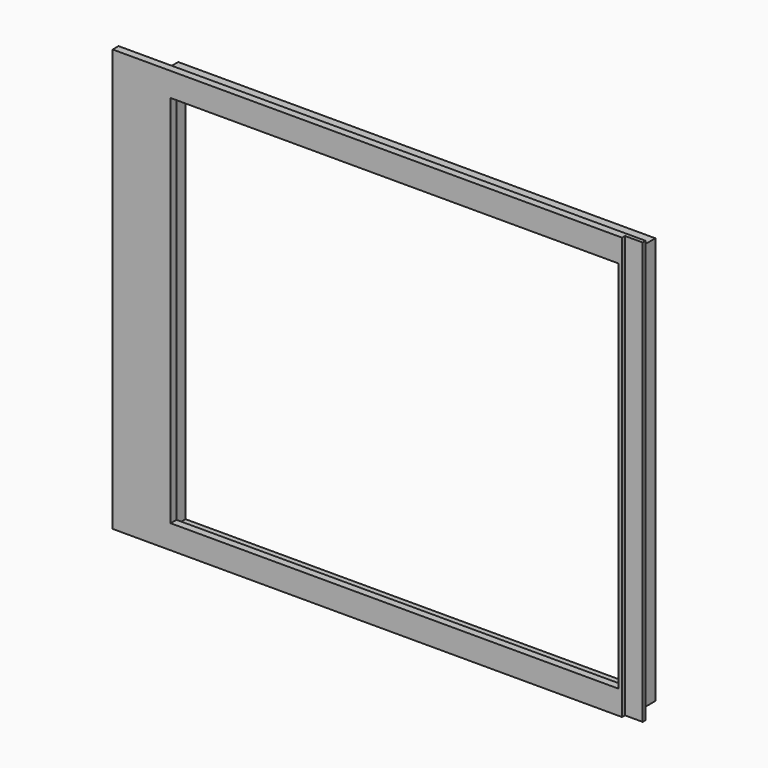
from build123d import *

# Parameters (mm, degrees)
F0_W          = 124.7
F0_H          = 107
F0_W_2        = 122
F0_H_2        = 102
F0_W_3        = 1.3
F1_DEPTH      = 2
F2_DEPTH      = 7.2
F3_DEPTH      = 1
F3_DEPTH_BACK = 2


with BuildPart() as f1:
    # F0 (on Front) → F1 (new body)
    with BuildSketch(Plane.XZ):
        Polygon((-77.1, -57.5), (61.7, -57.5), (61.7, -55.5), (-65, -55.5), (-65, 55.5), (61.7, 55.5), (61.7, 57.5), (-77.1, 57.5), align=None)
        Polygon((61.7, -53.5), (61.7, -55.5), (65, -55.5), (65, 55.5), (61.7, 55.5), (61.7, 53.5), (63, 53.5), (63, -53.5), align=None)
        Polygon((-65, -55.5), (61.7, -55.5), (61.7, -53.5), (-63, -53.5), (-63, 53.5), (61.7, 53.5), (61.7, 55.5), (-65, 55.5), align=None)
        with Locations((-0.65, 0)):
            Rectangle(F0_W, F0_H)
        with Locations((-0.3, 0)):
            Rectangle(F0_W_2, F0_H_2, mode=Mode.SUBTRACT)
        Polygon((61.7, -57.5), (66.5, -57.5), (66.5, 57.5), (61.7, 57.5), (61.7, 55.5), (65, 55.5), (65, -55.5), (61.7, -55.5), align=None)
        with Locations((62.35, 0)):
            Rectangle(F0_W_3, F0_H)
    extrude(amount=-F1_DEPTH)

    # F0 (on Front) → F2 (join)
    with BuildSketch(Plane.XZ):
        Polygon((61.7, -53.5), (61.7, -55.5), (65, -55.5), (65, 55.5), (61.7, 55.5), (61.7, 53.5), (63, 53.5), (63, -53.5), align=None)
        Polygon((-65, -55.5), (61.7, -55.5), (61.7, -53.5), (-63, -53.5), (-63, 53.5), (61.7, 53.5), (61.7, 55.5), (-65, 55.5), align=None)
    extrude(amount=-F2_DEPTH)

    # F0 (on Front) → F3 (cut, two sides)
    with BuildSketch(Plane.XZ) as f3_sk:
        Polygon((61.7, -57.5), (66.5, -57.5), (66.5, 57.5), (61.7, 57.5), (61.7, 55.5), (65, 55.5), (65, -55.5), (61.7, -55.5), align=None)
        with Locations((62.35, 0)):
            Rectangle(F0_W_3, F0_H)
        Polygon((61.7, -53.5), (61.7, -55.5), (65, -55.5), (65, 55.5), (61.7, 55.5), (61.7, 53.5), (63, 53.5), (63, -53.5), align=None)
    extrude(amount=-F3_DEPTH, mode=Mode.SUBTRACT)
    extrude(f3_sk.sketch, amount=F3_DEPTH_BACK, mode=Mode.SUBTRACT)


solid = f1.part
